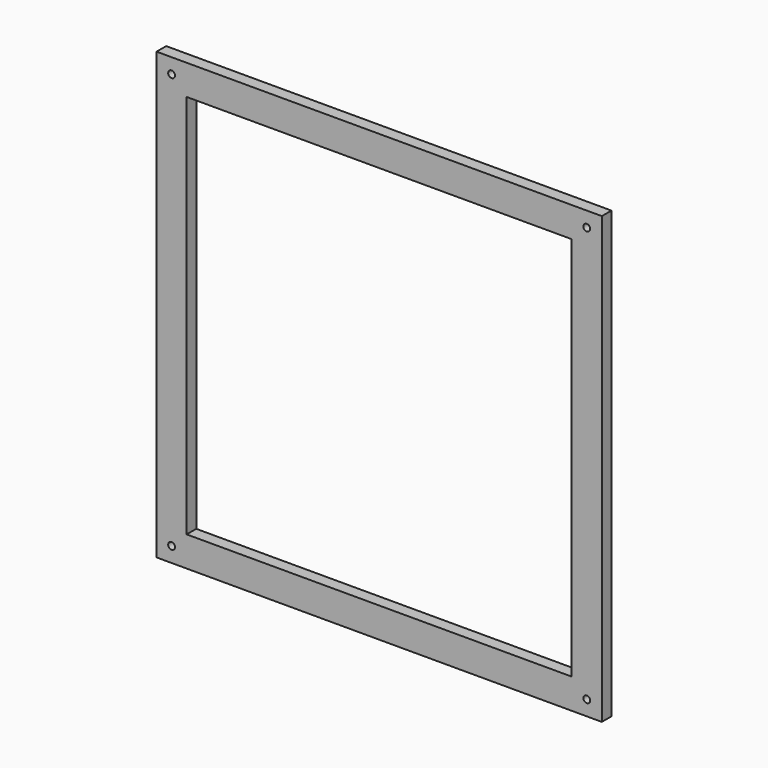
from build123d import *

# Parameters (mm, degrees)
F0_W     = 222
F0_H     = 222
F0_R     = 1.7
F0_W_2   = 192
F0_H_2   = 192
F1_DEPTH = 6


with BuildPart() as f1:
    # F0 (on Front) → F1 (new body)
    with BuildSketch(Plane.XZ):
        Rectangle(F0_W, F0_H)
        with Locations((-103.5, -103.5)):
            Circle(F0_R, mode=Mode.SUBTRACT)
        with Locations((103.5, -103.5)):
            Circle(F0_R, mode=Mode.SUBTRACT)
        with Locations((-103.5, 103.5)):
            Circle(F0_R, mode=Mode.SUBTRACT)
        Rectangle(F0_W_2, F0_H_2, mode=Mode.SUBTRACT)
        with Locations((103.5, 103.5)):
            Circle(F0_R, mode=Mode.SUBTRACT)
    extrude(amount=F1_DEPTH)


solid = f1.part
